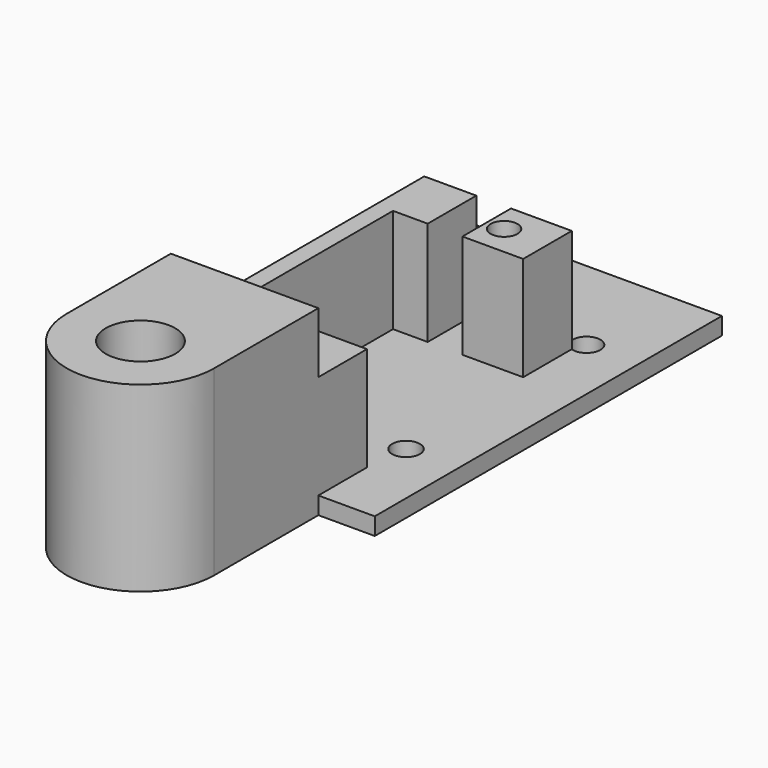
from build123d import *

# Parameters (mm, degrees)
SKETCH_R          = 1.55
PAD_DEPTH         = 12
SKETCH001_W       = 30
SKETCH001_H       = 50
SKETCH001_R       = 1.6
PAD001_DEPTH      = 2
SKETCH002_W       = 4
SKETCH002_H       = 7
POCKET_DEPTH      = 12
SKETCH004_R       = 4
PAD002_DEPTH      = 19
PAD002_DEPTH_BACK = 2


with BuildPart() as part:
    # Sketch → Pad (new body)
    with BuildSketch(Plane.XY):
        Polygon((0, 0), (17, 0), (17, 7), (2, 7), (2, 29.5), (17, 29.5), (17, 36.5), (0, 36.5), align=None)
        with Locations((12, 33)):
            Circle(SKETCH_R, mode=Mode.SUBTRACT)
        with Locations((12, 3.5)):
            Circle(SKETCH_R, mode=Mode.SUBTRACT)
    extrude(amount=PAD_DEPTH)

    # Sketch001 → Pad001 (join)
    with BuildSketch(Plane.XY):
        with Locations((8.5, 25)):
            Rectangle(SKETCH001_W, SKETCH001_H)
        with Locations((-1.7, 38)):
            Circle(SKETCH001_R, mode=Mode.SUBTRACT)
        with Locations((-1.7, 12)):
            Circle(SKETCH001_R, mode=Mode.SUBTRACT)
        with Locations((17.5, 12)):
            Circle(SKETCH001_R, mode=Mode.SUBTRACT)
        with Locations((17.5, 38)):
            Circle(SKETCH001_R, mode=Mode.SUBTRACT)
    extrude(amount=-PAD001_DEPTH)

    # Sketch002 (on DatumPlane) → Pocket (cut)
    with BuildSketch(Plane.XY.offset(12)):
        with Locations((8, 33)):
            Rectangle(SKETCH002_W, SKETCH002_H)
    extrude(amount=-POCKET_DEPTH, mode=Mode.SUBTRACT)

    # Sketch004 → Pad002 (join, two sides)
    with BuildSketch(Plane.XY) as pad002_sk:
        with BuildLine():
            ThreePointArc((0, -15), (8.5, -23.5), (17, -15))
            Line((17, -15), (17, 0))
            Line((17, 0), (0, 0))
            Line((0, 0), (0, -15))
        make_face()
        with Locations((8.5, -15)):
            Circle(SKETCH004_R, mode=Mode.SUBTRACT)
    extrude(amount=PAD002_DEPTH)
    extrude(pad002_sk.sketch, amount=-PAD002_DEPTH_BACK)


solid = part.part
